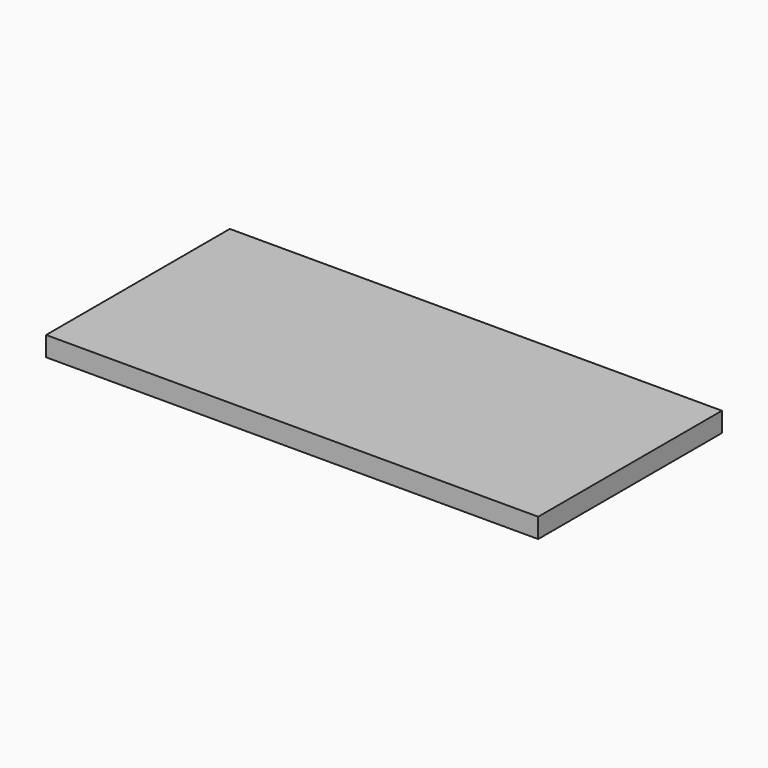
from build123d import *

# Parameters (mm, degrees)
F0_W     = 750
F0_H     = 350
F1_DEPTH = 30
F2_R     = 5
F3_DEPTH = 20
F4_R     = 5
F5_DEPTH = 20
F6_R     = 5
F7_DEPTH = 20


with BuildPart() as f1:
    # F0 (on Top) → F1 (new body)
    with BuildSketch(Plane.XY):
        with Locations((375, 175)):
            Rectangle(F0_W, F0_H)
    extrude(amount=F1_DEPTH)

    # F2 (on face) → F3 (cut)
    with BuildSketch(Plane(origin=(0, 0, 0), x_dir=(1, 0, 0), z_dir=(0, 0, -1))):
        with Locations((380, -170)):
            Circle(F2_R)
    extrude(amount=-F3_DEPTH, mode=Mode.SUBTRACT)

    # F4 (on face) → F5 (cut)
    with BuildSketch(Plane(origin=(0, 0, 0), x_dir=(1, 0, 0), z_dir=(0, 0, -1))):
        with Locations((620, -290)):
            Circle(F4_R)
    extrude(amount=-F5_DEPTH, mode=Mode.SUBTRACT)

    # F6 (on face) → F7 (cut)
    with BuildSketch(Plane(origin=(0, 0, 0), x_dir=(1, 0, 0), z_dir=(0, 0, -1))):
        with Locations((185, -290)):
            Circle(F6_R)
    extrude(amount=-F7_DEPTH, mode=Mode.SUBTRACT)


solid = f1.part
